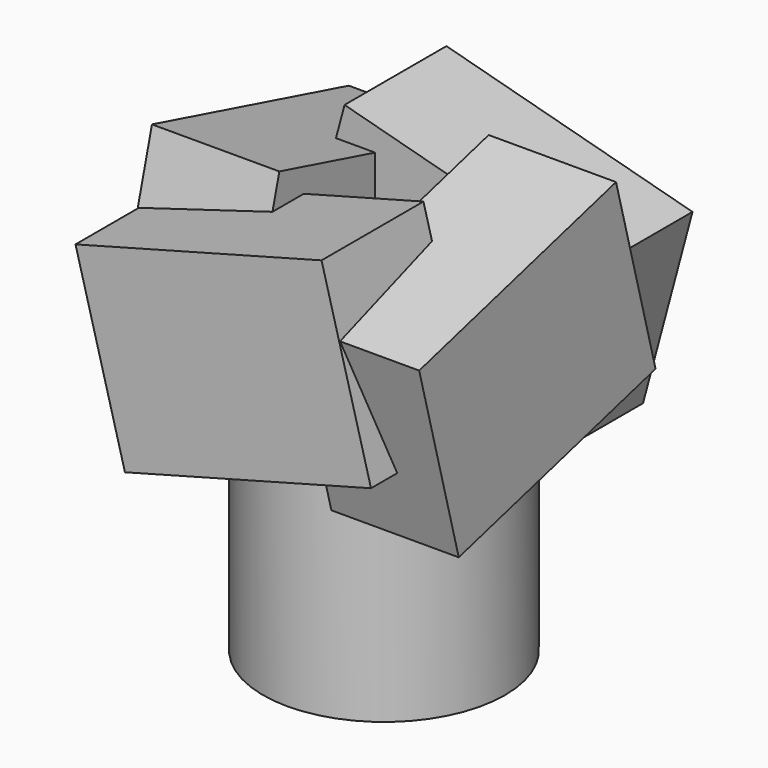
from build123d import *

# Parameters (mm, degrees)
CYLINDER_R                = 19
CYLINDER_DEPTH            = 40
CYLINDER003_R             = 6.35
CYLINDER003_DEPTH         = 50
CYLINDER004_R             = 6.35
CYLINDER004_DEPTH         = 50
BOX_W                     = 40
BOX_H                     = 20
BOX_DEPTH                 = 30
BOX_PLACEMENT_ANGLE       = 15
CYLINDER001_R             = 5
CYLINDER001_DEPTH         = 50
CYLINDER006_R             = 6.35
CYLINDER006_DEPTH         = 50
BOX001_W                  = 40
BOX001_H                  = 20
BOX001_DEPTH              = 30
BOX001_PLACEMENT_ANGLE    = 15
CYLINDER005_R             = 5
CYLINDER005_DEPTH         = 50
FUSION003_PLACEMENT_ANGLE = 180
CYLINDER008_R             = 6.35
CYLINDER008_DEPTH         = 50
BOX002_W                  = 40
BOX002_H                  = 20
BOX002_DEPTH              = 30
BOX002_PLACEMENT_ANGLE    = 15
CYLINDER007_R             = 5
CYLINDER007_DEPTH         = 50
CYLINDER010_R             = 6.35
CYLINDER010_DEPTH         = 50
BOX003_W                  = 40
BOX003_H                  = 20
BOX003_DEPTH              = 30
BOX003_PLACEMENT_ANGLE    = 15
CYLINDER009_R             = 5
CYLINDER009_DEPTH         = 50
FUSION008_PLACEMENT_ANGLE = 180
FUSION009_PLACEMENT_ANGLE = 90


with BuildPart() as cylinder:
    # Cylinder → Cylinder (new body)
    with BuildSketch(Plane.XY):
        Circle(CYLINDER_R)
    extrude(amount=CYLINDER_DEPTH)


with BuildPart() as obj1:
    # Cylinder003 → Cylinder003 (new body)
    with BuildSketch(Plane.XY):
        Circle(CYLINDER003_R)
    extrude(amount=CYLINDER003_DEPTH)


with BuildPart() as obj2:
    # Cylinder004 → Cylinder004 (new body)
    with BuildSketch(Plane.XY):
        Circle(CYLINDER004_R)
    extrude(amount=CYLINDER004_DEPTH)


with BuildPart() as cube:
    # Box → Box (new body)
    with BuildSketch(Plane.XY):
        with Locations((20, 10)):
            Rectangle(BOX_W, BOX_H)
    extrude(amount=BOX_DEPTH)


with BuildPart() as cube_1:
    # Box placement: moved
    add(cube.part.moved(Location((-19.558238, 7, 39.759763))).rotate(Axis((-19.558238, 7, 39.759763), (0, 1, 0)), BOX_PLACEMENT_ANGLE))


with BuildPart() as fusion001:
    # Cylinder001 → Cylinder001 (new body)
    with BuildSketch(Plane(origin=(0, 12.5, 0), x_dir=(1, 0, 0), z_dir=(0, 0, 1))):
        Circle(CYLINDER001_R)
    extrude(amount=CYLINDER001_DEPTH)

    # Fusion: union Cube
    add(cube_1.part)

    # Fusion001: union obj2
    add(obj2.part)


with BuildPart() as obj3:
    # Cylinder006 → Cylinder006 (new body)
    with BuildSketch(Plane.XY):
        Circle(CYLINDER006_R)
    extrude(amount=CYLINDER006_DEPTH)


with BuildPart() as cube001:
    # Box001 → Box001 (new body)
    with BuildSketch(Plane.XY):
        with Locations((20, 10)):
            Rectangle(BOX001_W, BOX001_H)
    extrude(amount=BOX001_DEPTH)


with BuildPart() as cube001_1:
    # Box001 placement: moved
    add(cube001.part.moved(Location((-19.558238, 7, 39.759763))).rotate(Axis((-19.558238, 7, 39.759763), (0, 1, 0)), BOX001_PLACEMENT_ANGLE))


with BuildPart() as fusion004:
    # Cylinder005 → Cylinder005 (new body)
    with BuildSketch(Plane(origin=(0, 12.5, 0), x_dir=(1, 0, 0), z_dir=(0, 0, 1))):
        Circle(CYLINDER005_R)
    extrude(amount=CYLINDER005_DEPTH)

    # Fusion002: union Cube001
    add(cube001_1.part)

    # Fusion003: union obj3
    add(obj3.part)


with BuildPart() as fusion004_1:
    # Fusion003 placement: moved
    add(fusion004.part.rotate(Axis((0, 0, 0), (0, 0, 1)), FUSION003_PLACEMENT_ANGLE))

    # Fusion004: union Fusion001
    add(fusion001.part)


with BuildPart() as obj4:
    # Cylinder008 → Cylinder008 (new body)
    with BuildSketch(Plane.XY):
        Circle(CYLINDER008_R)
    extrude(amount=CYLINDER008_DEPTH)


with BuildPart() as cube002:
    # Box002 → Box002 (new body)
    with BuildSketch(Plane.XY):
        with Locations((20, 10)):
            Rectangle(BOX002_W, BOX002_H)
    extrude(amount=BOX002_DEPTH)


with BuildPart() as cube002_1:
    # Box002 placement: moved
    add(cube002.part.moved(Location((-19.558238, 7, 39.759763))).rotate(Axis((-19.558238, 7, 39.759763), (0, 1, 0)), BOX002_PLACEMENT_ANGLE))


with BuildPart() as fusion006:
    # Cylinder007 → Cylinder007 (new body)
    with BuildSketch(Plane(origin=(0, 12.5, 0), x_dir=(1, 0, 0), z_dir=(0, 0, 1))):
        Circle(CYLINDER007_R)
    extrude(amount=CYLINDER007_DEPTH)

    # Fusion005: union Cube002
    add(cube002_1.part)

    # Fusion006: union obj4
    add(obj4.part)


with BuildPart() as obj5:
    # Cylinder010 → Cylinder010 (new body)
    with BuildSketch(Plane.XY):
        Circle(CYLINDER010_R)
    extrude(amount=CYLINDER010_DEPTH)


with BuildPart() as cube003:
    # Box003 → Box003 (new body)
    with BuildSketch(Plane.XY):
        with Locations((20, 10)):
            Rectangle(BOX003_W, BOX003_H)
    extrude(amount=BOX003_DEPTH)


with BuildPart() as cube003_1:
    # Box003 placement: moved
    add(cube003.part.moved(Location((-19.558238, 7, 39.759763))).rotate(Axis((-19.558238, 7, 39.759763), (0, 1, 0)), BOX003_PLACEMENT_ANGLE))


with BuildPart() as fusion009:
    # Cylinder009 → Cylinder009 (new body)
    with BuildSketch(Plane(origin=(0, 12.5, 0), x_dir=(1, 0, 0), z_dir=(0, 0, 1))):
        Circle(CYLINDER009_R)
    extrude(amount=CYLINDER009_DEPTH)

    # Fusion007: union Cube003
    add(cube003_1.part)

    # Fusion008: union obj5
    add(obj5.part)


with BuildPart() as fusion009_1:
    # Fusion008 placement: moved
    add(fusion009.part.rotate(Axis((0, 0, 0), (0, 0, 1)), FUSION008_PLACEMENT_ANGLE))

    # Fusion009: union Fusion006
    add(fusion006.part)


with BuildPart() as fusion009_2:
    # Fusion009 placement: moved
    add(fusion009_1.part.rotate(Axis((0, 0, 0), (0, 0, -1)), FUSION009_PLACEMENT_ANGLE))


solid = Compound([cylinder.part, obj1.part, fusion004_1.part, fusion009_2.part])
